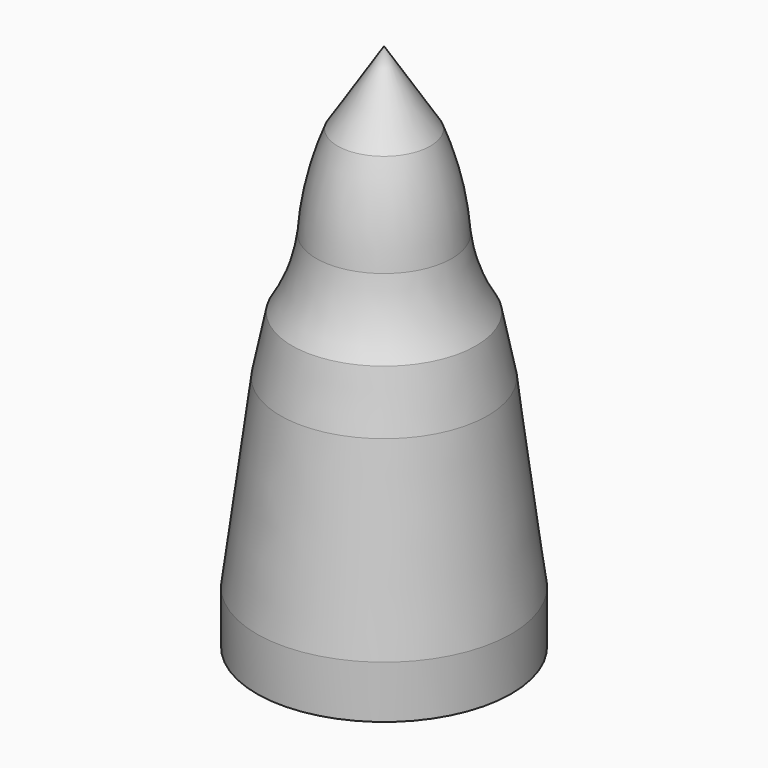
from build123d import *


with BuildPart() as f1:
    # F0 (on Front) → F1 (revolve)
    with BuildSketch(Plane.XZ):
        with BuildLine():
            Line((3, 0), (5, 0))
            Line((5, 0), (5, 2.066073))
            Line((5, 2.066073), (3.824242, 11.260495))
            ThreePointArc((3.824242, 11.260495), (3.052163, 12.696792), (2.659773, 14.279537))
            ThreePointArc((2.659773, 14.279537), (1.851925, 17.824059), (0, 20.952418))
            Line((0, 20.952418), (0, 17.068623))
            ThreePointArc((0, 17.068623), (0.450236, 15.609737), (0.667413, 14.09848))
            ThreePointArc((0.667413, 14.09848), (1.176377, 12.002533), (2.194559, 10.101127))
            ThreePointArc((2.194559, 10.101127), (2.79375, 8.903069), (3, 7.579501))
            Line((3, 7.579501), (3, 0))
        make_face()
    revolve(axis=Axis((0, 0, 16.671413), (0, 0, -1)))

    # F2 (on Front) → F3 (revolve, cut)
    with BuildSketch(Plane.XZ):
        Polygon((9.900054, 13.367673), (0, 21.913905), (0, 20.757873), (3.29275, 15.589049), (3.29275, 13.155878), (5.5244, 2.163447), align=None)
    revolve(axis=Axis((0, 0, 21.335889), (0, 0, -1)), mode=Mode.SUBTRACT)


solid = f1.part
